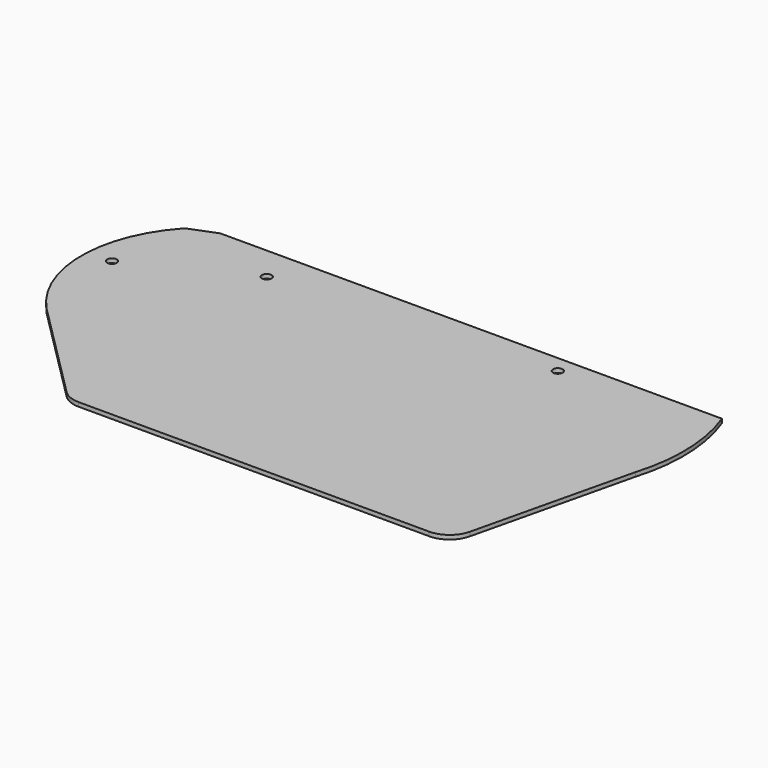
from build123d import *

# Parameters (mm, degrees)
F1_DEPTH = 3.048
F2_R     = 2.38125
F3_DEPTH = 3.048
F4_R     = 3.571875
F5_DEPTH = 9.525
F6_R     = 2.38125
F7_DEPTH = 6.35


with BuildPart() as f1:
    # F0 (on Top) → F1 (new body)
    with BuildSketch(Plane.XY):
        with BuildLine():
            Line((356.6070268588, 293.1853402508), (89.9070268588, 293.1853402508))
            Line((89.9070268588, 293.1853402508), (89.9070268588, 230.838141456))
            ThreePointArc((89.9070268588, 230.838141456), (88.5285448509, 226.3678853975), (84.8718925649, 223.4503014769))
            Line((84.8718925649, 223.4503014769), (25.6127064183, 200.1699069193))
            ThreePointArc((25.6127064183, 200.1699069193), (24.3322333387, 199.4889237751), (23.2396710643, 198.5351643577))
            ThreePointArc((23.2396710643, 198.5351643577), (-1.2970857024, 134.0019257775), (24.7815527961, 70.0762194589))
            Line((24.7815527961, 70.0762194589), (99.2751600757, -4.4173878207))
            ThreePointArc((99.2751600757, -4.4173878207), (105.4554248707, -8.5469087335), (112.7455442573, -9.9970036391))
            Line((112.7455442573, -9.9970036391), (373.8109154673, -9.9970036391))
            ThreePointArc((373.8109154673, -9.9970036391), (385.6186847653, -5.8962204817), (392.3428738571, 4.6406253157))
            Line((392.3428738571, 4.6406253157), (420.6077241059, 123.3529963609))
            ThreePointArc((420.6077241059, 123.3529963609), (416.1467307829, 211.7798908878), (356.6070268588, 277.3103402508))
            Line((356.6070268588, 277.3103402508), (356.6070268588, 293.1853402508))
        make_face()
    extrude(amount=F1_DEPTH)

    # F2 (on face) → F3 (cut, through all)
    with BuildSketch(Plane.XY.offset(3.048)):
        with Locations((261.3570268588, 283.6603402508)):
            Circle(F2_R)
        with Locations((197.8570268588, 283.6603402508)):
            Circle(F2_R)
        with Locations((134.3570268588, 283.6603402508)):
            Circle(F2_R)
    extrude(amount=-F3_DEPTH, mode=Mode.SUBTRACT)

    # F4 (on face) → F5 (cut)
    with BuildSketch(Plane.XY.offset(3.048)):
        with Locations((99.4320268588, 181.6634652508)):
            Circle(F4_R)
        with Locations((16.8820268588, 140.7853402508)):
            Circle(F4_R)
        with Locations((305.8070268588, 194.7603402508)):
            Circle(F4_R)
    extrude(amount=-F5_DEPTH, mode=Mode.SUBTRACT)

    # F6 (on face) → F7 (cut)
    with BuildSketch(Plane.XY.offset(3.048)):
        with BuildLine():
            Line((44.1701730803, 207.4603402508), (417.85350826, 207.4603402508))
            ThreePointArc((417.85350826, 207.4603402508), (393.6078526777, 247.9773896185), (356.6070268588, 277.3103402508))
            Line((356.6070268588, 277.3103402508), (356.6070268588, 293.1853402508))
            Line((356.6070268588, 293.1853402508), (89.9070268588, 293.1853402508))
            Line((89.9070268588, 293.1853402508), (89.9070268588, 230.838141456))
            ThreePointArc((89.9070268588, 230.838141456), (88.5285448509, 226.3678853975), (84.8718925649, 223.4503014769))
            Line((84.8718925649, 223.4503014769), (44.1701730803, 207.4603402508))
        make_face()
        with Locations((134.3570268588, 283.6603402508)):
            Circle(F6_R, mode=Mode.SUBTRACT)
        with Locations((197.8570268588, 283.6603402508)):
            Circle(F6_R, mode=Mode.SUBTRACT)
        with Locations((261.3570268588, 283.6603402508)):
            Circle(F6_R, mode=Mode.SUBTRACT)
    extrude(amount=-F7_DEPTH, mode=Mode.SUBTRACT)


solid = f1.part
